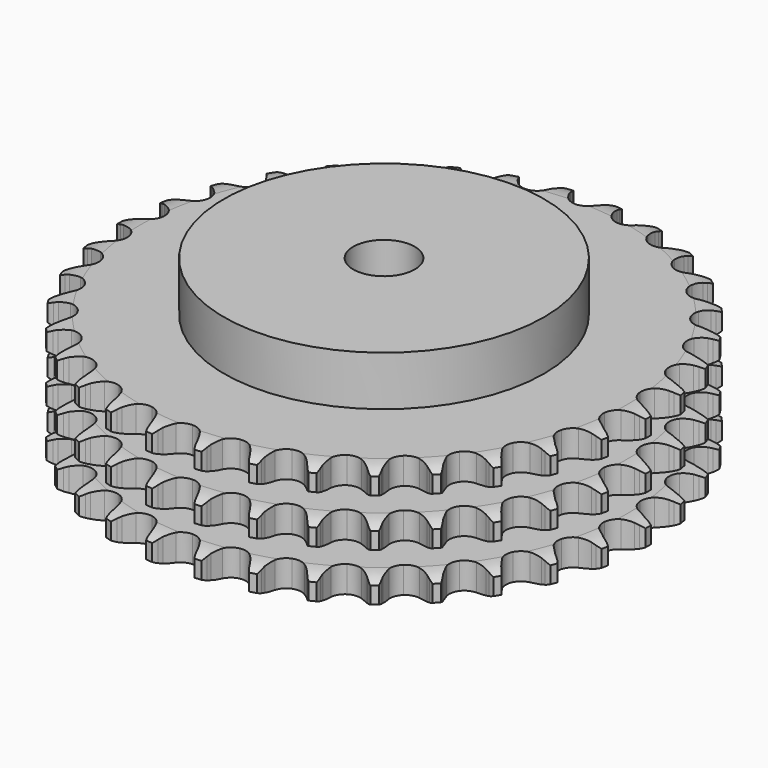
from build123d import *

# Parameters (mm, degrees)
PAD_DEPTH         = 49.8
SKETCH001_R       = 65
PAD001_DEPTH      = 70
SKETCH002_R       = 12.5
POCKET_DEPTH      = 0.001
POCKET_DEPTH_BACK = 70.001


with BuildPart() as part:
    # Sprocket → Pad (new body)
    with BuildSketch(Plane.XY):
        with BuildLine():
            ThreePointArc((-10.082744, 108.810139), (-8.639647, 107.094844), (-7.623169, 105.096959))
            Line((-7.623169, 105.096959), (-7.034333, 103.51462))
            ThreePointArc((-7.034333, 103.51462), (-6.1025, 101.4699), (-4.889335, 99.578493))
            ThreePointArc((-4.889335, 99.578493), (-2.734478, 97.77506), (0, 97.128213))
            ThreePointArc((0, 97.128213), (2.734478, 97.77506), (4.889335, 99.578493))
            ThreePointArc((4.889335, 99.578493), (6.1025, 101.4699), (7.034333, 103.51462))
            Line((7.034333, 103.51462), (7.623169, 105.096959))
            ThreePointArc((7.623169, 105.096959), (8.639647, 107.094844), (10.082744, 108.810139))
            ThreePointArc((10.082744, 108.810139), (11.186086, 106.858881), (11.818145, 104.708237))
            Line((11.818145, 104.708237), (12.106202, 103.044642))
            ThreePointArc((12.106202, 103.044642), (12.646452, 100.863514), (13.491415, 98.781393))
            ThreePointArc((13.491415, 98.781393), (15.278202, 96.612713), (17.847262, 95.47442))
            ThreePointArc((17.847262, 95.47442), (20.654038, 95.607795), (23.103585, 96.984567))
            Line((23.103585, 96.984567), (25.935321, 100.459532))
            ThreePointArc((25.935321, 100.459532), (26.350709, 101.194784), (26.804886, 101.90673))
            ThreePointArc((26.804886, 101.90673), (28.171166, 103.683819), (29.904877, 105.10474))
            ThreePointArc((29.904877, 105.10474), (30.630889, 102.983968), (30.857007, 100.753802))
            Line((30.857007, 100.753802), (30.834474, 99.065602))
            ThreePointArc((30.834474, 99.065602), (30.964744, 96.822341), (31.412732, 94.620411))
            ThreePointArc((31.412732, 94.620411), (32.770601, 92.160336), (35.086757, 90.569361))
            ThreePointArc((35.086757, 90.569361), (37.87025, 90.184721), (40.53107, 91.087948))
            Line((40.53107, 91.087948), (43.953114, 93.983414))
            ThreePointArc((43.953114, 93.983414), (44.496531, 94.62982), (45.073794, 95.246189))
            ThreePointArc((45.073794, 95.246189), (46.74335, 96.741967), (48.708635, 97.820126))
            ThreePointArc((48.708635, 97.820126), (49.032595, 95.602059), (48.84507, 93.368317))
            Line((48.84507, 93.368317), (48.512715, 91.713003))
            ThreePointArc((48.512715, 91.713003), (48.228569, 89.484), (48.264325, 87.237244))
            ThreePointArc((48.264325, 87.237244), (49.147037, 84.569549), (51.131415, 82.580071))
            ThreePointArc((51.131415, 82.580071), (53.796836, 81.690515), (56.578318, 82.089438))
            Line((56.578318, 82.089438), (60.474135, 84.306805))
            ThreePointArc((60.474135, 84.306805), (61.127077, 84.842352), (61.807768, 85.342154))
            ThreePointArc((61.807768, 85.342154), (63.723746, 86.505683), (65.853679, 87.204364))
            ThreePointArc((65.853679, 87.204364), (65.764554, 84.964537), (65.169773, 82.803286))
            Line((65.169773, 82.803286), (64.538914, 81.237226))
            ThreePointArc((64.538914, 81.237226), (63.850028, 79.098389), (63.472335, 76.883318))
            ThreePointArc((63.472335, 76.883318), (63.849829, 74.098847), (65.434854, 71.778615))
            ThreePointArc((65.434854, 71.778615), (67.891435, 70.414436), (70.698859, 70.295471))
            Line((70.698859, 70.295471), (74.935783, 71.759228))
            ThreePointArc((74.935783, 71.759228), (75.676013, 72.165679), (76.436953, 72.531894))
            ThreePointArc((76.436953, 72.531894), (78.534105, 73.323552), (80.756155, 73.618962))
            ThreePointArc((80.756155, 73.618962), (80.25698, 71.433649), (79.275198, 69.418488))
            Line((79.275198, 69.418488), (78.367317, 67.995014))
            ThreePointArc((78.367317, 67.995014), (77.29715, 66.019177), (76.51887, 63.911222))
            ThreePointArc((76.51887, 63.911222), (76.378292, 61.104798), (77.509987, 58.532825))
            ThreePointArc((77.509987, 58.532825), (79.674073, 56.740478), (82.411835, 56.107675))
            Line((82.411835, 56.107675), (86.845582, 56.767977))
            ThreePointArc((86.845582, 56.767977), (87.647894, 57.03149), (88.463169, 57.251647))
            ThreePointArc((88.463169, 57.251647), (90.67008, 57.644475), (92.908576, 57.526555))
            ThreePointArc((92.908576, 57.526555), (92.016351, 55.470174), (90.681001, 53.669727))
            Line((90.681001, 53.669727), (89.527016, 52.437313))
            ThreePointArc((89.527016, 52.437313), (88.112011, 50.691761), (86.959647, 48.762707))
            ThreePointArc((86.959647, 48.762707), (86.305783, 46.029899), (86.94561, 43.29377))
            ThreePointArc((86.94561, 43.29377), (88.743506, 41.134291), (91.318376, 40.009201))
            Line((91.318376, 40.009201), (95.79796, 39.84356))
            ThreePointArc((95.79796, 39.84356), (96.635031, 39.955162), (97.476878, 40.021764))
            ThreePointArc((97.476878, 40.021764), (99.718394, 40.002385), (101.897108, 39.47515))
            ThreePointArc((101.897108, 39.47515), (100.642215, 37.617729), (98.998771, 36.093308))
            Line((98.998771, 36.093308), (97.637979, 35.093922))
            ThreePointArc((97.637979, 35.093922), (95.926323, 33.638097), (94.439118, 31.953636))
            ThreePointArc((94.439118, 31.953636), (93.294235, 29.387506), (93.420405, 26.580397))
            ThreePointArc((93.420405, 26.580397), (94.790886, 24.127325), (97.115178, 22.54826))
            Line((97.115178, 22.54826), (101.488052, 21.562319))
            ThreePointArc((101.488052, 21.562319), (102.331378, 21.518209), (103.171129, 21.428988))
            ThreePointArc((103.171129, 21.428988), (105.370918, 20.998061), (107.415656, 20.079466))
            ThreePointArc((107.415656, 20.079466), (105.84083, 18.484257), (103.945256, 17.287774))
            Line((103.945256, 17.287774), (102.423998, 16.55545))
            ThreePointArc((102.423998, 16.55545), (100.47398, 15.438929), (98.702578, 14.056422))
            ThreePointArc((98.702578, 14.056422), (97.105663, 11.744357), (96.713881, 8.961861))
            ThreePointArc((96.713881, 8.961861), (97.610275, 6.298732), (99.60484, 4.319466))
            Line((99.60484, 4.319466), (103.722091, 2.546799))
            ThreePointArc((103.722091, 2.546799), (104.542952, 2.348479), (105.352011, 2.106474))
            ThreePointArc((105.352011, 2.106474), (107.435162, 1.278674), (109.276292, 0))
            ThreePointArc((109.276292, 0), (107.435162, -1.278674), (105.352011, -2.106474))
            Line((105.352011, -2.106474), (103.722091, -2.546799))
            ThreePointArc((103.722091, -2.546799), (101.600115, -3.285993), (99.60484, -4.319466))
            ThreePointArc((99.60484, -4.319466), (97.610275, -6.298732), (96.713881, -8.961861))
            ThreePointArc((96.713881, -8.961861), (97.105663, -11.744357), (98.702578, -14.056422))
            Line((98.702578, -14.056422), (102.423998, -16.55545))
            ThreePointArc((102.423998, -16.55545), (103.194442, -16.901225), (103.945256, -17.287774))
            ThreePointArc((103.945256, -17.287774), (105.84083, -18.484257), (107.415656, -20.079466))
            ThreePointArc((107.415656, -20.079466), (105.370918, -20.998061), (103.171129, -21.428988))
            Line((103.171129, -21.428988), (101.488052, -21.562319))
            ThreePointArc((101.488052, -21.562319), (99.26638, -21.899015), (97.115178, -22.54826))
            ThreePointArc((97.115178, -22.54826), (94.790886, -24.127325), (93.420405, -26.580397))
            ThreePointArc((93.420405, -26.580397), (93.294235, -29.387506), (94.439118, -31.953636))
            Line((94.439118, -31.953636), (97.637979, -35.093922))
            ThreePointArc((97.637979, -35.093922), (98.331768, -35.575378), (98.998771, -36.093308))
            ThreePointArc((98.998771, -36.093308), (100.642215, -37.617729), (101.897108, -39.47515))
            ThreePointArc((101.897108, -39.47515), (99.718394, -40.002385), (97.476878, -40.021764))
            Line((97.476878, -40.021764), (95.79796, -39.84356))
            ThreePointArc((95.79796, -39.84356), (93.552248, -39.766292), (91.318376, -40.009201))
            ThreePointArc((91.318376, -40.009201), (88.743506, -41.134291), (86.94561, -43.29377))
            ThreePointArc((86.94561, -43.29377), (86.305783, -46.029899), (86.959647, -48.762707))
            Line((86.959647, -48.762707), (89.527016, -52.437313))
            ThreePointArc((89.527016, -52.437313), (90.120524, -53.038055), (90.681001, -53.669727))
            ThreePointArc((90.681001, -53.669727), (92.016351, -55.470174), (92.908576, -57.526555))
            ThreePointArc((92.908576, -57.526555), (90.67008, -57.644475), (88.463169, -57.251647))
            Line((88.463169, -57.251647), (86.845582, -56.767977))
            ThreePointArc((86.845582, -56.767977), (84.652306, -56.279376), (82.411835, -56.107675))
            ThreePointArc((82.411835, -56.107675), (79.674073, -56.740478), (77.509987, -58.532825))
            ThreePointArc((77.509987, -58.532825), (76.378292, -61.104798), (76.51887, -63.911222))
            Line((76.51887, -63.911222), (78.367317, -67.995014))
            ThreePointArc((78.367317, -67.995014), (78.840334, -68.694584), (79.275198, -69.418488))
            ThreePointArc((79.275198, -69.418488), (80.25698, -71.433649), (80.756155, -73.618962))
            ThreePointArc((80.756155, -73.618962), (78.534105, -73.323552), (76.436953, -72.531894))
            Line((76.436953, -72.531894), (74.935783, -71.759228))
            ThreePointArc((74.935783, -71.759228), (72.869632, -70.875933), (70.698859, -70.295471))
            ThreePointArc((70.698859, -70.295471), (67.891435, -70.414436), (65.434854, -71.778615))
            ThreePointArc((65.434854, -71.778615), (63.849829, -74.098847), (63.472335, -76.883318))
            Line((63.472335, -76.883318), (64.538914, -81.237226))
            ThreePointArc((64.538914, -81.237226), (64.875331, -82.011802), (65.169773, -82.803286))
            ThreePointArc((65.169773, -82.803286), (65.764554, -84.964537), (65.853679, -87.204364))
            ThreePointArc((65.853679, -87.204364), (63.723746, -86.505683), (61.807768, -85.342154))
            Line((61.807768, -85.342154), (60.474135, -84.306805))
            ThreePointArc((60.474135, -84.306805), (58.605469, -83.058895), (56.578318, -82.089438))
            ThreePointArc((56.578318, -82.089438), (53.796836, -81.690515), (51.131415, -82.580071))
            ThreePointArc((51.131415, -82.580071), (49.147037, -84.569549), (48.264325, -87.237244))
            Line((48.264325, -87.237244), (48.512715, -91.713003))
            ThreePointArc((48.512715, -91.713003), (48.701076, -92.536206), (48.84507, -93.368317))
            ThreePointArc((48.84507, -93.368317), (49.032595, -95.602059), (48.708635, -97.820126))
            ThreePointArc((48.708635, -97.820126), (46.74335, -96.741967), (45.073794, -95.246189))
            Line((45.073794, -95.246189), (43.953114, -93.983414))
            ThreePointArc((43.953114, -93.983414), (42.345568, -92.413387), (40.53107, -91.087948))
            ThreePointArc((40.53107, -91.087948), (37.87025, -90.184721), (35.086757, -90.569361))
            ThreePointArc((35.086757, -90.569361), (32.770601, -92.160336), (31.412732, -94.620411))
            Line((31.412732, -94.620411), (30.834474, -99.065602))
            ThreePointArc((30.834474, -99.065602), (30.868365, -99.9094), (30.857007, -100.753802))
            ThreePointArc((30.857007, -100.753802), (30.630889, -102.983968), (29.904877, -105.10474))
            ThreePointArc((29.904877, -105.10474), (28.171166, -103.683819), (26.804886, -101.90673))
            Line((26.804886, -101.90673), (25.935321, -100.459532))
            ThreePointArc((25.935321, -100.459532), (24.643639, -98.620851), (23.103585, -96.984567))
            ThreePointArc((23.103585, -96.984567), (20.654038, -95.607795), (17.847262, -95.47442))
            ThreePointArc((17.847262, -95.47442), (15.278202, -96.612713), (13.491415, -98.781393))
            Line((13.491415, -98.781393), (12.106202, -103.044642))
            ThreePointArc((12.106202, -103.044642), (11.984468, -103.8803), (11.818145, -104.708237))
            ThreePointArc((11.818145, -104.708237), (11.186086, -106.858881), (10.082744, -108.810139))
            ThreePointArc((10.082744, -108.810139), (8.639647, -107.094844), (7.623169, -105.096959))
            Line((7.623169, -105.096959), (7.034333, -103.51462))
            ThreePointArc((7.034333, -103.51462), (6.1025, -101.4699), (4.889335, -99.578493))
            ThreePointArc((4.889335, -99.578493), (2.734478, -97.77506), (0, -97.128213))
            ThreePointArc((0, -97.128213), (-2.734478, -97.77506), (-4.889335, -99.578493))
            Line((-4.889335, -99.578493), (-7.034333, -103.51462))
            ThreePointArc((-7.034333, -103.51462), (-7.307545, -104.313681), (-7.623169, -105.096959))
            ThreePointArc((-7.623169, -105.096959), (-8.639647, -107.094844), (-10.082744, -108.810139))
            ThreePointArc((-10.082744, -108.810139), (-11.186086, -106.858881), (-11.818145, -104.708237))
            Line((-11.818145, -104.708237), (-12.106202, -103.044642))
            ThreePointArc((-12.106202, -103.044642), (-12.646452, -100.863514), (-13.491415, -98.781393))
            ThreePointArc((-13.491415, -98.781393), (-15.278202, -96.612713), (-17.847262, -95.47442))
            ThreePointArc((-17.847262, -95.47442), (-20.654038, -95.607795), (-23.103585, -96.984567))
            Line((-23.103585, -96.984567), (-25.935321, -100.459532))
            ThreePointArc((-25.935321, -100.459532), (-26.350709, -101.194784), (-26.804886, -101.90673))
            ThreePointArc((-26.804886, -101.90673), (-28.171166, -103.683819), (-29.904877, -105.10474))
            ThreePointArc((-29.904877, -105.10474), (-30.630889, -102.983968), (-30.857007, -100.753802))
            Line((-30.857007, -100.753802), (-30.834474, -99.065602))
            ThreePointArc((-30.834474, -99.065602), (-30.964744, -96.822341), (-31.412732, -94.620411))
            ThreePointArc((-31.412732, -94.620411), (-32.770601, -92.160336), (-35.086757, -90.569361))
            ThreePointArc((-35.086757, -90.569361), (-37.87025, -90.184721), (-40.53107, -91.087948))
            Line((-40.53107, -91.087948), (-43.953114, -93.983414))
            ThreePointArc((-43.953114, -93.983414), (-44.496531, -94.62982), (-45.073794, -95.246189))
            ThreePointArc((-45.073794, -95.246189), (-46.74335, -96.741967), (-48.708635, -97.820126))
            ThreePointArc((-48.708635, -97.820126), (-49.032595, -95.602059), (-48.84507, -93.368317))
            Line((-48.84507, -93.368317), (-48.512715, -91.713003))
            ThreePointArc((-48.512715, -91.713003), (-48.228569, -89.484), (-48.264325, -87.237244))
            ThreePointArc((-48.264325, -87.237244), (-49.147037, -84.569549), (-51.131415, -82.580071))
            ThreePointArc((-51.131415, -82.580071), (-53.796836, -81.690515), (-56.578318, -82.089438))
            Line((-56.578318, -82.089438), (-60.474135, -84.306805))
            ThreePointArc((-60.474135, -84.306805), (-61.127077, -84.842352), (-61.807768, -85.342154))
            ThreePointArc((-61.807768, -85.342154), (-63.723746, -86.505683), (-65.853679, -87.204364))
            ThreePointArc((-65.853679, -87.204364), (-65.764554, -84.964537), (-65.169773, -82.803286))
            Line((-65.169773, -82.803286), (-64.538914, -81.237226))
            ThreePointArc((-64.538914, -81.237226), (-63.850028, -79.098389), (-63.472335, -76.883318))
            ThreePointArc((-63.472335, -76.883318), (-63.849829, -74.098847), (-65.434854, -71.778615))
            ThreePointArc((-65.434854, -71.778615), (-67.891435, -70.414436), (-70.698859, -70.295471))
            Line((-70.698859, -70.295471), (-74.935783, -71.759228))
            ThreePointArc((-74.935783, -71.759228), (-75.676013, -72.165679), (-76.436953, -72.531894))
            ThreePointArc((-76.436953, -72.531894), (-78.534105, -73.323552), (-80.756155, -73.618962))
            ThreePointArc((-80.756155, -73.618962), (-80.25698, -71.433649), (-79.275198, -69.418488))
            Line((-79.275198, -69.418488), (-78.367317, -67.995014))
            ThreePointArc((-78.367317, -67.995014), (-77.29715, -66.019177), (-76.51887, -63.911222))
            ThreePointArc((-76.51887, -63.911222), (-76.378292, -61.104798), (-77.509987, -58.532825))
            ThreePointArc((-77.509987, -58.532825), (-79.674073, -56.740478), (-82.411835, -56.107675))
            Line((-82.411835, -56.107675), (-86.845582, -56.767977))
            ThreePointArc((-86.845582, -56.767977), (-87.647894, -57.03149), (-88.463169, -57.251647))
            ThreePointArc((-88.463169, -57.251647), (-90.67008, -57.644475), (-92.908576, -57.526555))
            ThreePointArc((-92.908576, -57.526555), (-92.016351, -55.470174), (-90.681001, -53.669727))
            Line((-90.681001, -53.669727), (-89.527016, -52.437313))
            ThreePointArc((-89.527016, -52.437313), (-88.112011, -50.691761), (-86.959647, -48.762707))
            ThreePointArc((-86.959647, -48.762707), (-86.305783, -46.029899), (-86.94561, -43.29377))
            ThreePointArc((-86.94561, -43.29377), (-88.743506, -41.134291), (-91.318376, -40.009201))
            Line((-91.318376, -40.009201), (-95.79796, -39.84356))
            ThreePointArc((-95.79796, -39.84356), (-96.635031, -39.955162), (-97.476878, -40.021764))
            ThreePointArc((-97.476878, -40.021764), (-99.718394, -40.002385), (-101.897108, -39.47515))
            ThreePointArc((-101.897108, -39.47515), (-100.642215, -37.617729), (-98.998771, -36.093308))
            Line((-98.998771, -36.093308), (-97.637979, -35.093922))
            ThreePointArc((-97.637979, -35.093922), (-95.926323, -33.638097), (-94.439118, -31.953636))
            ThreePointArc((-94.439118, -31.953636), (-93.294235, -29.387506), (-93.420405, -26.580397))
            ThreePointArc((-93.420405, -26.580397), (-94.790886, -24.127325), (-97.115178, -22.54826))
            Line((-97.115178, -22.54826), (-101.488052, -21.562319))
            ThreePointArc((-101.488052, -21.562319), (-102.331378, -21.518209), (-103.171129, -21.428988))
            ThreePointArc((-103.171129, -21.428988), (-105.370918, -20.998061), (-107.415656, -20.079466))
            ThreePointArc((-107.415656, -20.079466), (-105.84083, -18.484257), (-103.945256, -17.287774))
            Line((-103.945256, -17.287774), (-102.423998, -16.55545))
            ThreePointArc((-102.423998, -16.55545), (-100.47398, -15.438929), (-98.702578, -14.056422))
            ThreePointArc((-98.702578, -14.056422), (-97.105663, -11.744357), (-96.713881, -8.961861))
            ThreePointArc((-96.713881, -8.961861), (-97.610275, -6.298732), (-99.60484, -4.319466))
            Line((-99.60484, -4.319466), (-103.722091, -2.546799))
            ThreePointArc((-103.722091, -2.546799), (-104.542952, -2.348479), (-105.352011, -2.106474))
            ThreePointArc((-105.352011, -2.106474), (-107.435162, -1.278674), (-109.276292, 0))
            ThreePointArc((-109.276292, 0), (-107.435162, 1.278674), (-105.352011, 2.106474))
            Line((-105.352011, 2.106474), (-103.722091, 2.546799))
            ThreePointArc((-103.722091, 2.546799), (-101.600115, 3.285993), (-99.60484, 4.319466))
            ThreePointArc((-99.60484, 4.319466), (-97.610275, 6.298732), (-96.713881, 8.961861))
            ThreePointArc((-96.713881, 8.961861), (-97.105663, 11.744357), (-98.702578, 14.056422))
            Line((-98.702578, 14.056422), (-102.423998, 16.55545))
            ThreePointArc((-102.423998, 16.55545), (-103.194442, 16.901225), (-103.945256, 17.287774))
            ThreePointArc((-103.945256, 17.287774), (-105.84083, 18.484257), (-107.415656, 20.079466))
            ThreePointArc((-107.415656, 20.079466), (-105.370918, 20.998061), (-103.171129, 21.428988))
            Line((-103.171129, 21.428988), (-101.488052, 21.562319))
            ThreePointArc((-101.488052, 21.562319), (-99.26638, 21.899015), (-97.115178, 22.54826))
            ThreePointArc((-97.115178, 22.54826), (-94.790886, 24.127325), (-93.420405, 26.580397))
            ThreePointArc((-93.420405, 26.580397), (-93.294235, 29.387506), (-94.439118, 31.953636))
            Line((-94.439118, 31.953636), (-97.637979, 35.093922))
            ThreePointArc((-97.637979, 35.093922), (-98.331768, 35.575378), (-98.998771, 36.093308))
            ThreePointArc((-98.998771, 36.093308), (-100.642215, 37.617729), (-101.897108, 39.47515))
            ThreePointArc((-101.897108, 39.47515), (-99.718394, 40.002385), (-97.476878, 40.021764))
            Line((-97.476878, 40.021764), (-95.79796, 39.84356))
            ThreePointArc((-95.79796, 39.84356), (-93.552248, 39.766292), (-91.318376, 40.009201))
            ThreePointArc((-91.318376, 40.009201), (-88.743506, 41.134291), (-86.94561, 43.29377))
            ThreePointArc((-86.94561, 43.29377), (-86.305783, 46.029899), (-86.959647, 48.762707))
            Line((-86.959647, 48.762707), (-89.527016, 52.437313))
            ThreePointArc((-89.527016, 52.437313), (-90.120524, 53.038055), (-90.681001, 53.669727))
            ThreePointArc((-90.681001, 53.669727), (-92.016351, 55.470174), (-92.908576, 57.526555))
            ThreePointArc((-92.908576, 57.526555), (-90.67008, 57.644475), (-88.463169, 57.251647))
            Line((-88.463169, 57.251647), (-86.845582, 56.767977))
            ThreePointArc((-86.845582, 56.767977), (-84.652306, 56.279376), (-82.411835, 56.107675))
            ThreePointArc((-82.411835, 56.107675), (-79.674073, 56.740478), (-77.509987, 58.532825))
            ThreePointArc((-77.509987, 58.532825), (-76.378292, 61.104798), (-76.51887, 63.911222))
            Line((-76.51887, 63.911222), (-78.367317, 67.995014))
            ThreePointArc((-78.367317, 67.995014), (-78.840334, 68.694584), (-79.275198, 69.418488))
            ThreePointArc((-79.275198, 69.418488), (-80.25698, 71.433649), (-80.756155, 73.618962))
            ThreePointArc((-80.756155, 73.618962), (-78.534105, 73.323552), (-76.436953, 72.531894))
            Line((-76.436953, 72.531894), (-74.935783, 71.759228))
            ThreePointArc((-74.935783, 71.759228), (-72.869632, 70.875933), (-70.698859, 70.295471))
            ThreePointArc((-70.698859, 70.295471), (-67.891435, 70.414436), (-65.434854, 71.778615))
            ThreePointArc((-65.434854, 71.778615), (-63.849829, 74.098847), (-63.472335, 76.883318))
            Line((-63.472335, 76.883318), (-64.538914, 81.237226))
            ThreePointArc((-64.538914, 81.237226), (-64.875331, 82.011802), (-65.169773, 82.803286))
            ThreePointArc((-65.169773, 82.803286), (-65.764554, 84.964537), (-65.853679, 87.204364))
            ThreePointArc((-65.853679, 87.204364), (-63.723746, 86.505683), (-61.807768, 85.342154))
            Line((-61.807768, 85.342154), (-60.474135, 84.306805))
            ThreePointArc((-60.474135, 84.306805), (-58.605469, 83.058895), (-56.578318, 82.089438))
            ThreePointArc((-56.578318, 82.089438), (-53.796836, 81.690515), (-51.131415, 82.580071))
            ThreePointArc((-51.131415, 82.580071), (-49.147037, 84.569549), (-48.264325, 87.237244))
            Line((-48.264325, 87.237244), (-48.512715, 91.713003))
            ThreePointArc((-48.512715, 91.713003), (-48.701076, 92.536206), (-48.84507, 93.368317))
            ThreePointArc((-48.84507, 93.368317), (-49.032595, 95.602059), (-48.708635, 97.820126))
            ThreePointArc((-48.708635, 97.820126), (-46.74335, 96.741967), (-45.073794, 95.246189))
            Line((-45.073794, 95.246189), (-43.953114, 93.983414))
            ThreePointArc((-43.953114, 93.983414), (-42.345568, 92.413387), (-40.53107, 91.087948))
            ThreePointArc((-40.53107, 91.087948), (-37.87025, 90.184721), (-35.086757, 90.569361))
            ThreePointArc((-35.086757, 90.569361), (-32.770601, 92.160336), (-31.412732, 94.620411))
            Line((-31.412732, 94.620411), (-30.834474, 99.065602))
            ThreePointArc((-30.834474, 99.065602), (-30.868365, 99.9094), (-30.857007, 100.753802))
            ThreePointArc((-30.857007, 100.753802), (-30.630889, 102.983968), (-29.904877, 105.10474))
            ThreePointArc((-29.904877, 105.10474), (-28.171166, 103.683819), (-26.804886, 101.90673))
            Line((-26.804886, 101.90673), (-25.935321, 100.459532))
            ThreePointArc((-25.935321, 100.459532), (-24.643639, 98.620851), (-23.103585, 96.984567))
            ThreePointArc((-23.103585, 96.984567), (-20.654038, 95.607795), (-17.847262, 95.47442))
            ThreePointArc((-17.847262, 95.47442), (-15.278202, 96.612713), (-13.491415, 98.781393))
            Line((-13.491415, 98.781393), (-12.106202, 103.044642))
            ThreePointArc((-12.106202, 103.044642), (-11.984468, 103.8803), (-11.818145, 104.708237))
            ThreePointArc((-11.818145, 104.708237), (-11.186086, 106.858881), (-10.082744, 108.810139))
        make_face()
    extrude(amount=PAD_DEPTH)

    # Sketch → Groove (revolve, cut)
    with BuildSketch(Plane.XZ):
        with BuildLine():
            ThreePointArc((98.814719, 0), (103.173618, 0.506758), (107.3, 2))
            Line((107.3, 2), (107.3, 8.8))
            ThreePointArc((107.3, 8.8), (103.173618, 10.293242), (98.814719, 10.8))
            Line((65, 10.8), (98.814719, 10.8))
            Line((65, 10.8), (65, 19.5))
            Line((65, 19.5), (98.814719, 19.5))
            ThreePointArc((98.814719, 19.5), (103.173618, 20.006758), (107.3, 21.5))
            Line((107.3, 28.3), (107.3, 21.5))
            ThreePointArc((107.3, 28.3), (103.173618, 29.793242), (98.814719, 30.3))
            Line((65, 30.3), (98.814719, 30.3))
            Line((65, 39), (65, 30.3))
            Line((98.814719, 39), (65, 39))
            ThreePointArc((98.814719, 39), (103.173618, 39.506758), (107.3, 41))
            Line((107.3, 41), (107.3, 47.8))
            ThreePointArc((107.3, 47.8), (103.173618, 49.293242), (98.814719, 49.8))
            Line((98.814719, 49.8), (117.3, 49.8))
            Line((117.3, 49.8), (117.3, 0))
            Line((98.814719, 0), (117.3, 0))
        make_face()
    revolve(axis=Axis((0, 0, 0), (0, 0, 1)), mode=Mode.SUBTRACT)

    # Sketch001 → Pad001 (join)
    with BuildSketch(Plane.XY):
        Circle(SKETCH001_R)
    extrude(amount=PAD001_DEPTH)

    # Sketch002 → Pocket (cut, two sides)
    with BuildSketch(Plane.XY) as pocket_sk:
        Circle(SKETCH002_R)
    extrude(amount=-POCKET_DEPTH, mode=Mode.SUBTRACT)
    extrude(pocket_sk.sketch, amount=POCKET_DEPTH_BACK, mode=Mode.SUBTRACT)


solid = part.part
